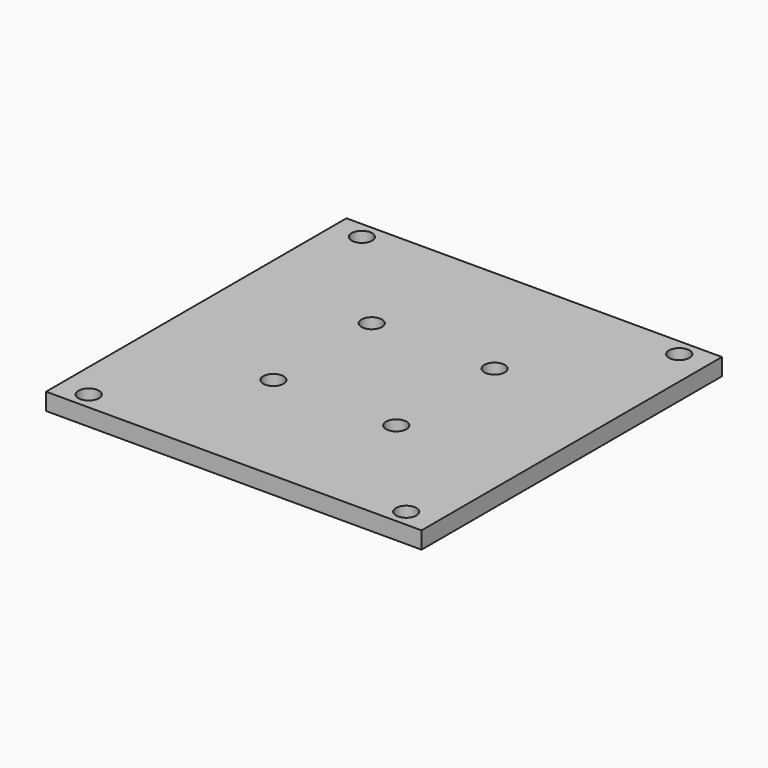
from build123d import *

# Parameters (mm, degrees)
F0_W     = 110
F0_H     = 110
F0_R     = 3
F1_DEPTH = 5
F2_R     = 1.75
F3_DEPTH = 5.001
F4_R     = 3
F5_DEPTH = 3.5


with BuildPart() as f1:
    # F0 (on Top) → F1 (new body)
    with BuildSketch(Plane.XY):
        Rectangle(F0_W, F0_H)
        with Locations((-46.5, -50)):
            Circle(F0_R, mode=Mode.SUBTRACT)
        with Locations((46.5, -50)):
            Circle(F0_R, mode=Mode.SUBTRACT)
        with Locations((-46.5, 50)):
            Circle(F0_R, mode=Mode.SUBTRACT)
        with Locations((46.5, 50)):
            Circle(F0_R, mode=Mode.SUBTRACT)
    extrude(amount=F1_DEPTH)

    # F2 (on face) → F3 (cut, through all)
    with BuildSketch(Plane.XY.offset(5)):
        with Locations((-18, 18)):
            Circle(F2_R)
        with Locations((18, 18)):
            Circle(F2_R)
        with Locations((-18, -18)):
            Circle(F2_R)
        with Locations((18, -18)):
            Circle(F2_R)
    extrude(amount=-F3_DEPTH, mode=Mode.SUBTRACT)

    # F4 (on face) → F5 (cut)
    with BuildSketch(Plane.XY.offset(5)):
        with Locations((-18, 18)):
            Circle(F4_R)
        with Locations((-18, -18)):
            Circle(F4_R)
        with Locations((18, 18)):
            Circle(F4_R)
        with Locations((18, -18)):
            Circle(F4_R)
    extrude(amount=-F5_DEPTH, mode=Mode.SUBTRACT)


solid = f1.part
